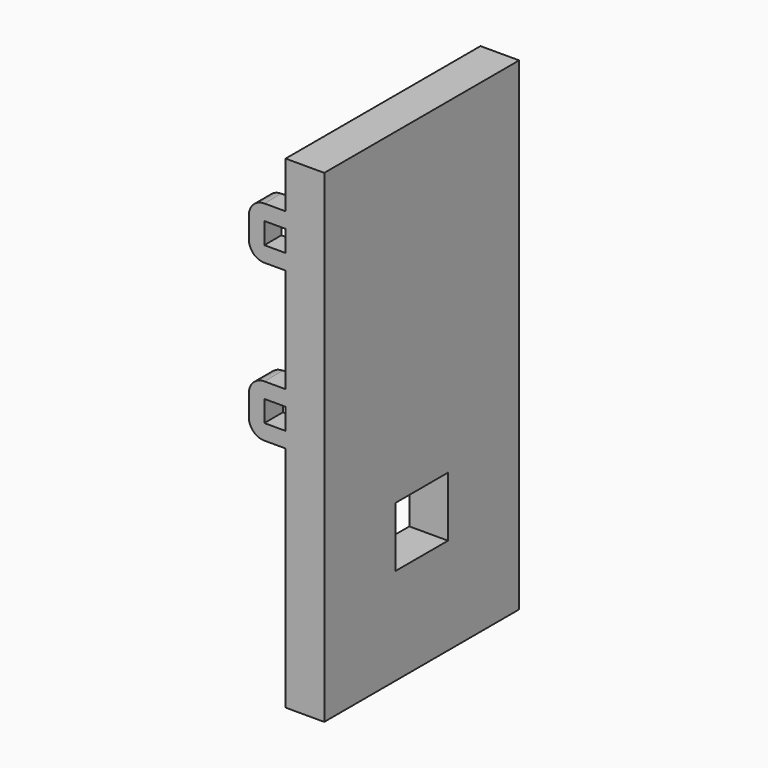
from build123d import *

# Parameters (mm, degrees)
SKETCH004_W      = 2
SKETCH004_H      = 4.6
EXTRUDE004_DEPTH = 4.6
SKETCH003_W      = 4
SKETCH003_H      = 6.2
EXTRUDE003_DEPTH = 3.4
EXTRUDE002_DEPTH = 10.2
EXTRUDE001_DEPTH = 10.4
SKETCH005_W      = 2.2
SKETCH005_H      = 2.2
EXTRUDE005_DEPTH = 12.6
SKETCH006_W      = 2.2
SKETCH006_H      = 2.2
EXTRUDE006_DEPTH = 12.6
SKETCH_W         = 4
SKETCH_H         = 50
EXTRUDE_DEPTH    = 12.6


with BuildPart() as extrude004_led:
    # Sketch004 → Extrude004 (new body, symmetric)
    with BuildSketch(Plane.XZ):
        with Locations((1, 5.3)):
            Rectangle(SKETCH004_W, SKETCH004_H)
    extrude(amount=EXTRUDE004_DEPTH, both=True)


with BuildPart() as obj1:
    # Sketch003 → Extrude003 (new body, symmetric)
    with BuildSketch(Plane.XZ):
        with Locations((2, 13.1)):
            Rectangle(SKETCH003_W, SKETCH003_H)
    extrude(amount=EXTRUDE003_DEPTH, both=True)


with BuildPart() as extrude002_step_down:
    # Sketch002 → Extrude002 (new body, symmetric)
    with BuildSketch(Plane.XZ):
        Polygon((0, 18), (2.6, 18), (2.6, 29.4), (0, 29.4), (-3.8, 29.4), (-3.8, 18), align=None)
    extrude(amount=EXTRUDE002_DEPTH, both=True)


with BuildPart() as extrude001_power_path:
    # Sketch001 → Extrude001 (new body, symmetric)
    with BuildSketch(Plane.XZ):
        Polygon((0, 30.4), (3, 30.4), (3, 46), (0, 46), (-3.8, 46), (-3.8, 30.4), align=None)
    extrude(amount=EXTRUDE001_DEPTH, both=True)


with BuildPart() as obj2:
    # Sketch005 → Extrude005 (new body, symmetric)
    with BuildSketch(Plane.XZ):
        with BuildLine():
            Line((-3.8, 43.6), (-3.8, 41.4))
            ThreePointArc((-3.8, 41.4), (-3.331371, 40.268629), (-2.2, 39.8))
            Line((-2.2, 39.8), (1.6, 39.8))
            Line((1.6, 39.8), (1.6, 45.2))
            Line((1.6, 45.2), (-2.2, 45.2))
            ThreePointArc((-2.2, 45.2), (-3.331371, 44.731371), (-3.8, 43.6))
        make_face()
        with Locations((-1.1, 42.5)):
            Rectangle(SKETCH005_W, SKETCH005_H, mode=Mode.SUBTRACT)
    extrude(amount=EXTRUDE005_DEPTH, both=True)


with BuildPart() as obj3:
    # Sketch006 → Extrude006 (new body, symmetric)
    with BuildSketch(Plane.XZ):
        with BuildLine():
            Line((-3.8, 27.4), (-3.8, 25.2))
            ThreePointArc((-3.8, 25.2), (-3.331371, 24.068629), (-2.2, 23.6))
            Line((-2.2, 23.6), (1.6, 23.6))
            Line((1.6, 23.6), (1.6, 29))
            Line((1.6, 29), (-2.2, 29))
            ThreePointArc((-2.2, 29), (-3.331371, 28.531371), (-3.8, 27.4))
        make_face()
        with Locations((-1.1, 26.3)):
            Rectangle(SKETCH006_W, SKETCH006_H, mode=Mode.SUBTRACT)
    extrude(amount=EXTRUDE006_DEPTH, both=True)


with BuildPart() as cut003:
    # Sketch → Extrude (new body, symmetric)
    with BuildSketch(Plane.XZ):
        with Locations((2, 25)):
            Rectangle(SKETCH_W, SKETCH_H)
    extrude(amount=EXTRUDE_DEPTH, both=True)

    # Fusion: union obj2, obj3
    add(obj2.part)
    add(obj3.part)

    # Cut: cut Extrude001 - power - path
    add(extrude001_power_path.part, mode=Mode.SUBTRACT)

    # Cut001: cut Extrude002 - step -down
    add(extrude002_step_down.part, mode=Mode.SUBTRACT)

    # Cut002: cut obj1
    add(obj1.part, mode=Mode.SUBTRACT)

    # Cut003: cut Extrude004 - led
    add(extrude004_led.part, mode=Mode.SUBTRACT)


solid = cut003.part
